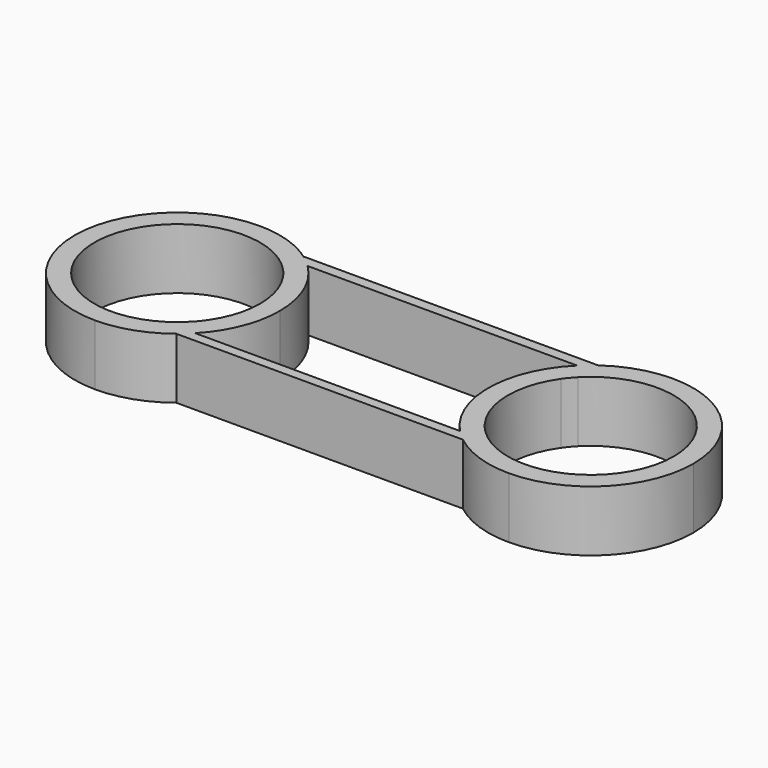
from build123d import *

# Parameters (mm, degrees)
F1_DEPTH = 8.89


with BuildPart() as f1:
    # F0 (on Top) → F1 (new body)
    with BuildSketch(Plane.XY):
        with BuildLine():
            Line((-18.9896195369, -11.198009608), (-19.4227703597, -11.198009608))
            Line((-19.4227703597, -11.198009608), (-19.4227703597, -7.7054101467))
            ThreePointArc((-19.4227703597, -7.7054101467), (-40.3979995929, 0.5824766479), (-19.4227703597, 8.8703634425))
            Line((-19.4227703597, 8.8703634425), (-19.4227703597, 12.6917476503))
            ThreePointArc((-19.4227703597, 12.6917476503), (-23.6180195335, 14.8405326983), (-28.2729995929, 15.5811766479))
            ThreePointArc((-28.2729995929, 15.5811766479), (-38.8786820719, 11.1881591269), (-43.2716995929, 0.5824766479))
            ThreePointArc((-43.2716995929, 0.5824766479), (-38.8786820719, -10.0232058311), (-28.2729995929, -14.4162233521))
            ThreePointArc((-28.2729995929, -14.4162233521), (-23.3603107933, -13.5888496996), (-18.9896195369, -11.198009608))
        make_face()
        with BuildLine():
            Line((-18.2107055563, -9.7378878497), (-17.3894763432, -9.7378878497))
            ThreePointArc((-17.3894763432, -9.7378878497), (-14.3410273374, -4.9728046917), (-13.2742995929, 0.5824766479))
            ThreePointArc((-13.2742995929, 0.5824766479), (-14.4361743904, 6.3706775779), (-17.7417894428, 11.2621121503))
            Line((-17.7417894428, 11.2621121503), (-18.2107055563, 11.2621121503))
            Line((-18.2107055563, 11.2621121503), (-18.2107055563, 7.3475238555))
            ThreePointArc((-18.2107055563, 7.3475238555), (-16.675134699, 4.1187394921), (-16.1479995929, 0.5824766479))
            ThreePointArc((-16.1479995929, 0.5824766479), (-16.675134699, -2.9537861963), (-18.2107055563, -6.1825705597))
            Line((-18.2107055563, -6.1825705597), (-18.2107055563, -9.7378878497))
        make_face()
        with BuildLine():
            Line((-19.4227703597, -7.7054101467), (-19.4227703597, -11.198009608))
            Line((-19.4227703597, -11.198009608), (-18.9896195369, -11.198009608))
            ThreePointArc((-18.9896195369, -11.198009608), (-18.1631535939, -10.4968742161), (-17.3894763432, -9.7378878497))
            Line((-17.3894763432, -9.7378878497), (-18.2107055563, -9.7378878497))
            Line((-18.2107055563, -9.7378878497), (-18.2107055563, -6.1825705597))
            ThreePointArc((-18.2107055563, -6.1825705597), (-18.7861326596, -6.9683498493), (-19.4227703597, -7.7054101467))
        make_face()
        with BuildLine():
            ThreePointArc((-17.3894763432, -9.7378878497), (-18.1631535939, -10.4968742161), (-18.9896195369, -11.198009608))
            Line((-18.9896195369, -11.198009608), (22.9410203511, -11.198009608))
            ThreePointArc((22.9410203511, -11.198009608), (22.1145544081, -10.4968742161), (21.3408771574, -9.7378878497))
            Line((21.3408771574, -9.7378878497), (-17.3894763432, -9.7378878497))
        make_face()
        with BuildLine():
            Line((-19.4227703597, 12.6917476503), (-19.4227703597, 8.8703634425))
            ThreePointArc((-19.4227703597, 8.8703634425), (-18.7861326596, 8.133303145), (-18.2107055563, 7.3475238555))
            Line((-18.2107055563, 7.3475238555), (-18.2107055563, 11.2621121503))
            Line((-18.2107055563, 11.2621121503), (-17.7417894428, 11.2621121503))
            ThreePointArc((-17.7417894428, 11.2621121503), (-18.5559520702, 12.0078864494), (-19.4227703597, 12.6917476503))
        make_face()
        with BuildLine():
            Line((-19.4227703597, 12.801990392), (-19.4227703597, 12.6917476503))
            ThreePointArc((-19.4227703597, 12.6917476503), (-18.5559520702, 12.0078864494), (-17.7417894428, 11.2621121503))
            Line((-17.7417894428, 11.2621121503), (21.693190257, 11.2621121503))
            ThreePointArc((21.693190257, 11.2621121503), (22.5793232744, 12.0687070475), (23.5270165736, 12.801990392))
            Line((23.5270165736, 12.801990392), (-19.4227703597, 12.801990392))
        make_face()
        with BuildLine():
            ThreePointArc((23.5270165736, 12.801990392), (22.5793232744, 12.0687070475), (21.693190257, 11.2621121503))
            Line((21.693190257, 11.2621121503), (22.2892944437, 11.2621121503))
            Line((22.2892944437, 11.2621121503), (22.2892944437, 7.5329654434))
            ThreePointArc((22.2892944437, 7.5329654434), (22.9010353132, 8.334282136), (23.5772296403, 9.0820097368))
            Line((23.5772296403, 9.0820097368), (23.5772296403, 12.801990392))
            Line((23.5772296403, 12.801990392), (23.5270165736, 12.801990392))
        make_face()
        with BuildLine():
            Line((23.5772296403, -11.198009608), (22.9410203511, -11.198009608))
            ThreePointArc((22.9410203511, -11.198009608), (27.3117115612, -13.5888496836), (32.2244003091, -14.4162233521))
            ThreePointArc((32.2244003091, -14.4162233521), (42.8300828514, -10.0232058658), (47.2231004071, 0.5824766479))
            ThreePointArc((47.2231004071, 0.5824766479), (42.8300828861, 11.1881591269), (32.2244004071, 15.5811766479))
            ThreePointArc((32.2244004071, 15.5811766479), (27.6590865682, 14.8694956246), (23.5270165736, 12.801990392))
            Line((23.5270165736, 12.801990392), (23.5772296403, 12.801990392))
            Line((23.5772296403, 12.801990392), (23.5772296403, 9.0820097368))
            ThreePointArc((23.5772296403, 9.0820097368), (36.8161690997, 11.8043875936), (44.3494004071, 0.5824766479))
            ThreePointArc((44.3494004071, 0.5824766479), (36.8161690997, -10.6394342978), (23.5772296403, -7.9170564411))
            Line((23.5772296403, -7.9170564411), (23.5772296403, -11.198009608))
        make_face()
        with BuildLine():
            ThreePointArc((21.3408771574, -9.7378878497), (22.1145544081, -10.4968742161), (22.9410203511, -11.198009608))
            Line((22.9410203511, -11.198009608), (23.5772296403, -11.198009608))
            Line((23.5772296403, -11.198009608), (23.5772296403, -7.9170564411))
            ThreePointArc((23.5772296403, -7.9170564411), (22.9010353132, -7.1693288402), (22.2892944437, -6.3680121476))
            Line((22.2892944437, -6.3680121476), (22.2892944437, -9.7378878497))
            Line((22.2892944437, -9.7378878497), (21.3408771574, -9.7378878497))
        make_face()
        with BuildLine():
            ThreePointArc((21.693190257, 11.2621121503), (17.2278107399, 0.8340716473), (21.3408771574, -9.7378878497))
            Line((21.3408771574, -9.7378878497), (22.2892944437, -9.7378878497))
            Line((22.2892944437, -9.7378878497), (22.2892944437, -6.3680121476))
            ThreePointArc((22.2892944437, -6.3680121476), (20.0994004071, 0.5824766479), (22.2892944437, 7.5329654434))
            Line((22.2892944437, 7.5329654434), (22.2892944437, 11.2621121503))
            Line((22.2892944437, 11.2621121503), (21.693190257, 11.2621121503))
        make_face()
    extrude(amount=F1_DEPTH)


solid = f1.part
